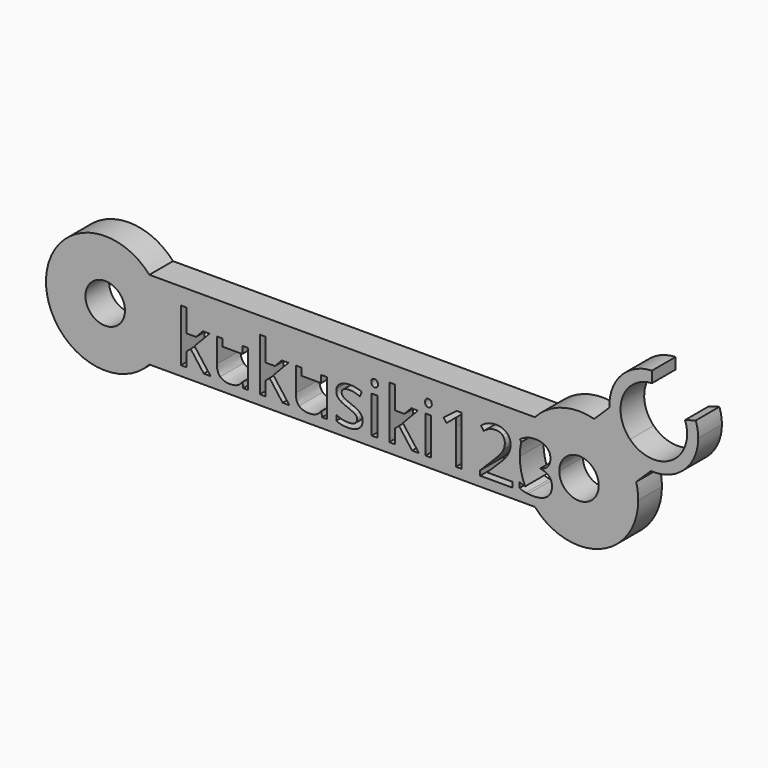
from build123d import *

# Parameters (mm, degrees)
F0_R     = 2
F1_DEPTH = 3


with BuildPart() as f1:
    # F0 (on Front) → F1 (new body)
    with BuildSketch(Plane.XZ):
        with BuildLine():
            ThreePointArc((-68.9614935578, 20.9310811907), (-79.4336295128, 16.9310811907), (-68.9614935578, 12.9310811907))
            Line((-68.9614935578, 12.9310811907), (-69.4336295128, 12.9310811907))
            Line((-69.4336295128, 12.9310811907), (-69.4336295128, 16.9310811907))
            Line((-69.4336295128, 16.9310811907), (-69.4336295128, 20.9310811907))
            Line((-69.4336295128, 20.9310811907), (-68.9614935578, 20.9310811907))
        make_face()
        with Locations((-73.4336295128, 16.9310811907)):
            Circle(F0_R, mode=Mode.SUBTRACT)
        with BuildLine():
            Line((-69.4336295128, 12.9310811907), (-68.9614935578, 12.9310811907))
            ThreePointArc((-68.9614935578, 12.9310811907), (-67.828595359, 14.7901486521), (-67.4336295128, 16.9310811907))
            Line((-67.4336295128, 16.9310811907), (-69.4336295128, 16.9310811907))
            Line((-69.4336295128, 16.9310811907), (-69.4336295128, 12.9310811907))
        make_face()
        with BuildLine():
            ThreePointArc((-67.4336295128, 16.9310811907), (-67.828595359, 19.0720137293), (-68.9614935578, 20.9310811907))
            Line((-68.9614935578, 20.9310811907), (-69.4336295128, 20.9310811907))
            Line((-69.4336295128, 20.9310811907), (-69.4336295128, 16.9310811907))
            Line((-69.4336295128, 16.9310811907), (-67.4336295128, 16.9310811907))
        make_face()
        with BuildLine():
            Line((-29.9057654678, 20.9310811907), (-68.9614935578, 20.9310811907))
            ThreePointArc((-68.9614935578, 20.9310811907), (-67.828595359, 19.0720137293), (-67.4336295128, 16.9310811907))
            Line((-67.4336295128, 16.9310811907), (-65.7621355794, 16.9310811907))
            Line((-65.7621355794, 16.9310811907), (-65.7621355794, 19.2408108427))
            Line((-65.7621355794, 19.2408108427), (-65.1995878697, 19.2408108427))
            Line((-65.1995878697, 19.2408108427), (-65.1995878697, 16.9310811907))
            Line((-65.1995878697, 16.9310811907), (-64.2298350591, 16.9310811907))
            Line((-64.2298350591, 16.9310811907), (-63.538262762, 17.6639227207))
            Line((-63.538262762, 17.6639227207), (-62.8627668767, 17.6639227207))
            Line((-62.8627668767, 17.6639227207), (-63.5599457963, 16.9310811907))
            Line((-63.5599457963, 16.9310811907), (-62.1192827691, 16.9310811907))
            Line((-62.1192827691, 16.9310811907), (-62.1192827691, 17.6639227207))
            Line((-62.1192827691, 17.6639227207), (-61.5435760487, 17.6639227207))
            Line((-61.5435760487, 17.6639227207), (-61.5435760487, 16.9310811907))
            Line((-61.5435760487, 16.9310811907), (-59.5466961669, 16.9310811907))
            Line((-59.5466961669, 16.9310811907), (-59.5466961669, 17.6639227207))
            Line((-59.5466961669, 17.6639227207), (-58.9775689518, 17.6639227207))
            Line((-58.9775689518, 17.6639227207), (-58.9775689518, 16.9310811907))
            Line((-58.9775689518, 16.9310811907), (-57.7713262994, 16.9310811907))
            Line((-57.7713262994, 16.9310811907), (-57.7713262994, 19.2408108427))
            Line((-57.7713262994, 19.2408108427), (-57.2087785897, 19.2408108427))
            Line((-57.2087785897, 19.2408108427), (-57.2087785897, 16.9310811907))
            Line((-57.2087785897, 16.9310811907), (-56.2390257792, 16.9310811907))
            Line((-56.2390257792, 16.9310811907), (-55.5474534821, 17.6639227207))
            Line((-55.5474534821, 17.6639227207), (-54.8719575967, 17.6639227207))
            Line((-54.8719575967, 17.6639227207), (-55.5691365163, 16.9310811907))
            Line((-55.5691365163, 16.9310811907), (-54.1284734892, 16.9310811907))
            Line((-54.1284734892, 16.9310811907), (-54.1284734892, 17.6639227207))
            Line((-54.1284734892, 17.6639227207), (-53.5527667687, 17.6639227207))
            Line((-53.5527667687, 17.6639227207), (-53.5527667687, 16.9310811907))
            Line((-53.5527667687, 16.9310811907), (-51.5558868869, 16.9310811907))
            Line((-51.5558868869, 16.9310811907), (-51.5558868869, 17.6639227207))
            Line((-51.5558868869, 17.6639227207), (-50.9867596718, 17.6639227207))
            Line((-50.9867596718, 17.6639227207), (-50.9867596718, 16.9310811907))
            Line((-50.9867596718, 16.9310811907), (-50.0032370628, 16.9310811907))
            add(Edge.make_bspline(
                [(-50.0032370628, 16.9310811907), (-49.9399323415, 17.2585795171), (-49.6467337434, 17.4670858515)],
                knots=[0.2159107229, 0.2159107229, 0.2159107229, 1, 1, 1], degree=2))
            add(Edge.make_bspline(
                [(-49.6467337434, 17.4670858515), (-49.2727985212, 17.7330075272), (-48.6225240731, 17.7330075272)],
                knots=[0, 0, 0, 1, 1, 1], degree=2))
            add(Edge.make_bspline(
                [(-48.6225240731, 17.7330075272), (-48.0161129942, 17.7330075272), (-47.4360199369, 17.4862760755)],
                knots=[0, 0, 0, 1, 1, 1], degree=2))
            Line((-47.4360199369, 17.4862760755), (-47.6388880193, 17.0235175307))
            add(Edge.make_bspline(
                [(-47.6388880193, 17.0235175307), (-48.2036288975, 17.2559933874), (-48.6630976896, 17.2559933874)],
                knots=[0, 0, 0, 1, 1, 1], degree=2))
            add(Edge.make_bspline(
                [(-48.6630976896, 17.2559933874), (-49.0677372703, 17.2559933874), (-49.2733468133, 17.1293379089)],
                knots=[0, 0, 0, 1, 1, 1], degree=2))
            add(Edge.make_bspline(
                [(-49.2733468133, 17.1293379089), (-49.4032036711, 17.0493460845), (-49.4510468087, 16.9310811907)],
                knots=[0, 0, 0, 0.6315701881, 0.6315701881, 0.6315701881], degree=2))
            Line((-49.4510468087, 16.9310811907), (-46.4326453669, 16.9310811907))
            Line((-46.4326453669, 16.9310811907), (-46.4326453669, 17.6639227207))
            Line((-46.4326453669, 17.6639227207), (-45.8635181518, 17.6639227207))
            Line((-45.8635181518, 17.6639227207), (-45.8635181518, 16.9310811907))
            Line((-45.8635181518, 16.9310811907), (-44.6572754995, 16.9310811907))
            Line((-44.6572754995, 16.9310811907), (-44.6572754995, 19.2408108427))
            Line((-44.6572754995, 19.2408108427), (-44.0947277897, 19.2408108427))
            Line((-44.0947277897, 19.2408108427), (-44.0947277897, 16.9310811907))
            Line((-44.0947277897, 16.9310811907), (-43.1249749792, 16.9310811907))
            Line((-43.1249749792, 16.9310811907), (-42.4334026821, 17.6639227207))
            Line((-42.4334026821, 17.6639227207), (-41.7579067968, 17.6639227207))
            Line((-41.7579067968, 17.6639227207), (-42.4550857164, 16.9310811907))
            Line((-42.4550857164, 16.9310811907), (-40.9738490727, 16.9310811907))
            Line((-40.9738490727, 16.9310811907), (-40.9738490727, 17.6639227207))
            Line((-40.9738490727, 17.6639227207), (-40.4047218577, 17.6639227207))
            Line((-40.4047218577, 17.6639227207), (-40.4047218577, 16.9310811907))
            Line((-40.4047218577, 16.9310811907), (-37.906702983, 16.9310811907))
            Line((-37.906702983, 16.9310811907), (-37.906702983, 17.4785999859))
            add(Edge.make_bspline(
                [(-37.906702983, 17.4785999859), (-37.906702983, 17.9249097673), (-37.8792883773, 18.3218732584)],
                knots=[0, 0, 0, 1, 1, 1], degree=2))
            add(Edge.make_bspline(
                [(-37.8792883773, 18.3218732584), (-37.9505663522, 18.2494986992), (-38.0399379669, 18.1710929268)],
                knots=[0, 0, 0, 1, 1, 1], degree=2))
            add(Edge.make_bspline(
                [(-38.0399379669, 18.1710929268), (-38.1293095816, 18.0926871544), (-38.8552483415, 17.502724839)],
                knots=[0, 0, 0, 1, 1, 1], degree=2))
            Line((-38.8552483415, 17.502724839), (-39.1568090046, 17.8931088247))
            Line((-39.1568090046, 17.8931088247), (-37.8310386712, 18.9184150792))
            Line((-37.8310386712, 18.9184150792), (-37.3518313629, 18.9184150792))
            Line((-37.3518313629, 18.9184150792), (-37.3518313629, 16.9310811907))
            Line((-37.3518313629, 16.9310811907), (-33.1212778292, 16.9310811907))
            add(Edge.make_bspline(
                [(-33.1212778292, 16.9310811907), (-33.0769106652, 17.017587587), (-33.0439002175, 17.1024715952)],
                knots=[0.655966, 0.655966, 0.655966, 1, 1, 1], degree=2))
            add(Edge.make_bspline(
                [(-33.0439002175, 17.1024715952), (-32.9479490974, 17.3492030469), (-32.9479490974, 17.6332183623)],
                knots=[0, 0, 0, 1, 1, 1], degree=2))
            add(Edge.make_bspline(
                [(-32.9479490974, 17.6332183623), (-32.9479490974, 18.0345681903), (-33.1913907964, 18.2692372154)],
                knots=[0, 0, 0, 1, 1, 1], degree=2))
            add(Edge.make_bspline(
                [(-33.1913907964, 18.2692372154), (-33.4348324953, 18.5039062405), (-33.8668866817, 18.5039062405)],
                knots=[0, 0, 0, 1, 1, 1], degree=2))
            add(Edge.make_bspline(
                [(-33.8668866817, 18.5039062405), (-34.1783166029, 18.5039062405), (-34.4579455814, 18.4008273229)],
                knots=[0, 0, 0, 1, 1, 1], degree=2))
            add(Edge.make_bspline(
                [(-34.4579455814, 18.4008273229), (-34.7375745599, 18.2977484053), (-35.0797088395, 18.0268921007)],
                knots=[0, 0, 0, 1, 1, 1], degree=2))
            Line((-35.0797088395, 18.0268921007), (-35.3812695026, 18.4139863336))
            add(Edge.make_bspline(
                [(-35.3812695026, 18.4139863336), (-34.6893248538, 18.9896930541), (-33.8734661871, 18.9896930541)],
                knots=[0, 0, 0, 1, 1, 1], degree=2))
            add(Edge.make_bspline(
                [(-33.8734661871, 18.9896930541), (-33.1672659433, 18.9896930541), (-32.7664644075, 18.6283685505)],
                knots=[0, 0, 0, 1, 1, 1], degree=2))
            add(Edge.make_bspline(
                [(-32.7664644075, 18.6283685505), (-32.3656628716, 18.2670440469), (-32.3656628716, 17.6573432153)],
                knots=[0, 0, 0, 1, 1, 1], degree=2))
            add(Edge.make_bspline(
                [(-32.3656628716, 17.6573432153), (-32.3656628716, 17.290977919), (-32.5234959307, 16.9310811907)],
                knots=[0, 0, 0, 0.7680386507, 0.7680386507, 0.7680386507], degree=2))
            Line((-32.5234959307, 16.9310811907), (-31.4336295128, 16.9310811907))
            ThreePointArc((-31.4336295128, 16.9310811907), (-31.3954385597, 17.6069753302), (-31.2813518835, 18.2742651226))
            Line((-31.2813518835, 18.2742651226), (-31.4269867712, 18.4688155451))
            add(Edge.make_bspline(
                [(-31.4269867712, 18.4688155451), (-31.313333711, 18.5586055073), (-31.1868512586, 18.6341488768)],
                knots=[0, 0, 0, 0.3688355878, 0.3688355878, 0.3688355878], degree=2))
            ThreePointArc((-31.1868512586, 18.6341488768), (-30.6737115294, 19.8536725852), (-29.9057654678, 20.9310811907))
        make_face()
        with BuildLine():
            add(Edge.make_bspline(
                [(-46.3849439529, 18.3953444017), (-46.480895073, 18.4896506455), (-46.480895073, 18.6815528856)],
                knots=[0, 0, 0, 1, 1, 1], degree=2))
            add(Edge.make_bspline(
                [(-46.480895073, 18.6815528856), (-46.480895073, 18.8767448785), (-46.3849439529, 18.9677613695)],
                knots=[0, 0, 0, 1, 1, 1], degree=2))
            add(Edge.make_bspline(
                [(-46.3849439529, 18.9677613695), (-46.2889928329, 19.0587778606), (-46.1442437146, 19.0587778606)],
                knots=[0, 0, 0, 1, 1, 1], degree=2))
            add(Edge.make_bspline(
                [(-46.1442437146, 19.0587778606), (-46.0071706859, 19.0587778606), (-45.9079298131, 18.9661164932)],
                knots=[0, 0, 0, 1, 1, 1], degree=2))
            add(Edge.make_bspline(
                [(-45.9079298131, 18.9661164932), (-45.8086889404, 18.8734551258), (-45.8086889404, 18.6815528856)],
                knots=[0, 0, 0, 1, 1, 1], degree=2))
            add(Edge.make_bspline(
                [(-45.8086889404, 18.6815528856), (-45.8086889404, 18.4896506455), (-45.9079298131, 18.3953444017)],
                knots=[0, 0, 0, 1, 1, 1], degree=2))
            add(Edge.make_bspline(
                [(-45.9079298131, 18.3953444017), (-46.0071706859, 18.301038158), (-46.1442437146, 18.301038158)],
                knots=[0, 0, 0, 1, 1, 1], degree=2))
            add(Edge.make_bspline(
                [(-46.1442437146, 18.301038158), (-46.2889928329, 18.301038158), (-46.3849439529, 18.3953444017)],
                knots=[0, 0, 0, 1, 1, 1], degree=2))
        make_face(mode=Mode.SUBTRACT)
        with BuildLine():
            add(Edge.make_bspline(
                [(-40.9261476588, 18.3953444017), (-41.0220987788, 18.4896506455), (-41.0220987788, 18.6815528856)],
                knots=[0, 0, 0, 1, 1, 1], degree=2))
            add(Edge.make_bspline(
                [(-41.0220987788, 18.6815528856), (-41.0220987788, 18.8767448785), (-40.9261476588, 18.9677613695)],
                knots=[0, 0, 0, 1, 1, 1], degree=2))
            add(Edge.make_bspline(
                [(-40.9261476588, 18.9677613695), (-40.8301965387, 19.0587778606), (-40.6854474204, 19.0587778606)],
                knots=[0, 0, 0, 1, 1, 1], degree=2))
            add(Edge.make_bspline(
                [(-40.6854474204, 19.0587778606), (-40.5483743917, 19.0587778606), (-40.449133519, 18.9661164932)],
                knots=[0, 0, 0, 1, 1, 1], degree=2))
            add(Edge.make_bspline(
                [(-40.449133519, 18.9661164932), (-40.3498926462, 18.8734551258), (-40.3498926462, 18.6815528856)],
                knots=[0, 0, 0, 1, 1, 1], degree=2))
            add(Edge.make_bspline(
                [(-40.3498926462, 18.6815528856), (-40.3498926462, 18.4896506455), (-40.449133519, 18.3953444017)],
                knots=[0, 0, 0, 1, 1, 1], degree=2))
            add(Edge.make_bspline(
                [(-40.449133519, 18.3953444017), (-40.5483743917, 18.301038158), (-40.6854474204, 18.301038158)],
                knots=[0, 0, 0, 1, 1, 1], degree=2))
            add(Edge.make_bspline(
                [(-40.6854474204, 18.301038158), (-40.8301965387, 18.301038158), (-40.9261476588, 18.3953444017)],
                knots=[0, 0, 0, 1, 1, 1], degree=2))
        make_face(mode=Mode.SUBTRACT)
        with BuildLine():
            Line((-68.9614935578, 12.9310811907), (-29.9057654678, 12.9310811907))
            ThreePointArc((-29.9057654678, 12.9310811907), (-30.2715984018, 13.3822705408), (-30.5920880684, 13.8667206816))
            add(Edge.make_bspline(
                [(-30.5920880684, 13.8667206816), (-30.705726748, 13.8798984775), (-30.8123513106, 13.899349061)],
                knots=[0.6775013135, 0.6775013135, 0.6775013135, 1, 1, 1], degree=2))
            add(Edge.make_bspline(
                [(-30.8123513106, 13.899349061), (-31.1429714558, 13.9596611936), (-31.4544013769, 14.1098932331)],
                knots=[0, 0, 0, 1, 1, 1], degree=2))
            Line((-31.4544013769, 14.1098932331), (-31.4544013769, 14.6516058424))
            add(Edge.make_bspline(
                [(-31.4544013769, 14.6516058424), (-31.1874369996, 14.5194719587), (-30.8917372822, 14.4392827283)],
                knots=[0, 0, 0, 0.8196998763, 0.8196998763, 0.8196998763], degree=2))
            ThreePointArc((-30.8917372822, 14.4392827283), (-31.2965915038, 15.6560609196), (-31.4336295128, 16.9310811907))
            Line((-31.4336295128, 16.9310811907), (-32.5234959307, 16.9310811907))
            add(Edge.make_bspline(
                [(-32.5234959307, 16.9310811907), (-32.5711643252, 16.8223859699), (-32.6332294236, 16.714280778)],
                knots=[0.7680386507, 0.7680386507, 0.7680386507, 1, 1, 1], degree=2))
            add(Edge.make_bspline(
                [(-32.6332294236, 16.714280778), (-32.9007959756, 16.2482324805), (-33.6333142408, 15.5354527314)],
                knots=[0, 0, 0, 1, 1, 1], degree=2))
            Line((-33.6333142408, 15.5354527314), (-34.7298984703, 14.462993355))
            Line((-34.7298984703, 14.462993355), (-34.7298984703, 14.4355787492))
            Line((-34.7298984703, 14.4355787492), (-32.1529255311, 14.4355787492))
            Line((-32.1529255311, 14.4355787492), (-32.1529255311, 13.9081217349))
            Line((-32.1529255311, 13.9081217349), (-35.4459679721, 13.9081217349))
            Line((-35.4459679721, 13.9081217349), (-35.4459679721, 14.3982948854))
            Line((-35.4459679721, 14.3982948854), (-34.1267771441, 15.7240652188))
            add(Edge.make_bspline(
                [(-34.1267771441, 15.7240652188), (-33.5236558179, 16.3348626346), (-33.3317535777, 16.5953013891)],
                knots=[0, 0, 0, 1, 1, 1], degree=2))
            add(Edge.make_bspline(
                [(-33.3317535777, 16.5953013891), (-33.2058722329, 16.7661403571), (-33.1212778292, 16.9310811907)],
                knots=[0, 0, 0, 0.655966, 0.655966, 0.655966], degree=2))
            Line((-33.1212778292, 16.9310811907), (-37.3518313629, 16.9310811907))
            Line((-37.3518313629, 16.9310811907), (-37.3518313629, 13.9081217349))
            Line((-37.3518313629, 13.9081217349), (-37.906702983, 13.9081217349))
            Line((-37.906702983, 13.9081217349), (-37.906702983, 16.9310811907))
            Line((-37.906702983, 16.9310811907), (-40.4047218577, 16.9310811907))
            Line((-40.4047218577, 16.9310811907), (-40.4047218577, 13.9081217349))
            Line((-40.4047218577, 13.9081217349), (-40.9738490727, 13.9081217349))
            Line((-40.9738490727, 13.9081217349), (-40.9738490727, 16.9310811907))
            Line((-40.9738490727, 16.9310811907), (-42.4550857164, 16.9310811907))
            Line((-42.4550857164, 16.9310811907), (-43.2799657073, 16.0640063299))
            Line((-43.2799657073, 16.0640063299), (-41.6515381265, 13.9081217349))
            Line((-41.6515381265, 13.9081217349), (-42.3401930226, 13.9081217349))
            Line((-42.3401930226, 13.9081217349), (-43.6670599403, 15.6834916023))
            Line((-43.6670599403, 15.6834916023), (-44.0947277897, 15.3128461328))
            Line((-44.0947277897, 15.3128461328), (-44.0947277897, 13.9081217349))
            Line((-44.0947277897, 13.9081217349), (-44.6572754995, 13.9081217349))
            Line((-44.6572754995, 13.9081217349), (-44.6572754995, 16.9310811907))
            Line((-44.6572754995, 16.9310811907), (-45.8635181518, 16.9310811907))
            Line((-45.8635181518, 16.9310811907), (-45.8635181518, 13.9081217349))
            Line((-45.8635181518, 13.9081217349), (-46.4326453669, 13.9081217349))
            Line((-46.4326453669, 13.9081217349), (-46.4326453669, 16.9310811907))
            Line((-46.4326453669, 16.9310811907), (-49.4510468087, 16.9310811907))
            add(Edge.make_bspline(
                [(-49.4510468087, 16.9310811907), (-49.4789563563, 16.862090739), (-49.4789563563, 16.7800758318)],
                knots=[0.6315701881, 0.6315701881, 0.6315701881, 1, 1, 1], degree=2))
            add(Edge.make_bspline(
                [(-49.4789563563, 16.7800758318), (-49.4789563563, 16.6287472081), (-49.4016471681, 16.52292683)],
                knots=[0, 0, 0, 1, 1, 1], degree=2))
            add(Edge.make_bspline(
                [(-49.4016471681, 16.52292683), (-49.32433798, 16.4171064518), (-49.1532708402, 16.3211553318)],
                knots=[0, 0, 0, 1, 1, 1], degree=2))
            add(Edge.make_bspline(
                [(-49.1532708402, 16.3211553318), (-48.9822037004, 16.2252042117), (-48.4953203025, 16.0431712296)],
                knots=[0, 0, 0, 1, 1, 1], degree=2))
            add(Edge.make_bspline(
                [(-48.4953203025, 16.0431712296), (-47.8275005068, 15.7997295307), (-47.5928314817, 15.552998079)],
                knots=[0, 0, 0, 1, 1, 1], degree=2))
            add(Edge.make_bspline(
                [(-47.5928314817, 15.552998079), (-47.3581624566, 15.3062666274), (-47.3581624566, 14.9323314052)],
                knots=[0, 0, 0, 1, 1, 1], degree=2))
            add(Edge.make_bspline(
                [(-47.3581624566, 14.9323314052), (-47.3581624566, 14.4081641435), (-47.7485464423, 14.1236005359)],
                knots=[0, 0, 0, 1, 1, 1], degree=2))
            add(Edge.make_bspline(
                [(-47.7485464423, 14.1236005359), (-48.1389304279, 13.8390369284), (-48.8451306717, 13.8390369284)],
                knots=[0, 0, 0, 1, 1, 1], degree=2))
            add(Edge.make_bspline(
                [(-48.8451306717, 13.8390369284), (-49.591904532, 13.8390369284), (-50.0097031234, 14.075899122)],
                knots=[0, 0, 0, 1, 1, 1], degree=2))
            Line((-50.0097031234, 14.075899122), (-50.0097031234, 14.6033561363))
            add(Edge.make_bspline(
                [(-50.0097031234, 14.6033561363), (-49.7388468187, 14.4662831076), (-49.4290617739, 14.3878773352)],
                knots=[0, 0, 0, 1, 1, 1], degree=2))
            add(Edge.make_bspline(
                [(-49.4290617739, 14.3878773352), (-49.1192767291, 14.3094715628), (-48.8308750767, 14.3094715628)],
                knots=[0, 0, 0, 1, 1, 1], degree=2))
            add(Edge.make_bspline(
                [(-48.8308750767, 14.3094715628), (-48.3856618796, 14.3094715628), (-48.1460582254, 14.4514792205)],
                knots=[0, 0, 0, 1, 1, 1], degree=2))
            add(Edge.make_bspline(
                [(-48.1460582254, 14.4514792205), (-47.9064545713, 14.5934868783), (-47.9064545713, 14.8851782833)],
                knots=[0, 0, 0, 1, 1, 1], degree=2))
            add(Edge.make_bspline(
                [(-47.9064545713, 14.8851782833), (-47.9064545713, 15.1044951292), (-48.096163643, 15.2602100898)],
                knots=[0, 0, 0, 1, 1, 1], degree=2))
            add(Edge.make_bspline(
                [(-48.096163643, 15.2602100898), (-48.2858727147, 15.4159250503), (-48.8385511663, 15.6286623909)],
                knots=[0, 0, 0, 1, 1, 1], degree=2))
            add(Edge.make_bspline(
                [(-48.8385511663, 15.6286623909), (-49.362718428, 15.8238543837), (-49.5836801502, 15.9697000862)],
                knots=[0, 0, 0, 1, 1, 1], degree=2))
            add(Edge.make_bspline(
                [(-49.5836801502, 15.9697000862), (-49.8046418725, 16.1155457887), (-49.9126554191, 16.3003202314)],
                knots=[0, 0, 0, 1, 1, 1], degree=2))
            add(Edge.make_bspline(
                [(-49.9126554191, 16.3003202314), (-50.0206689657, 16.4850946741), (-50.0206689657, 16.7416953837)],
                knots=[0, 0, 0, 1, 1, 1], degree=2))
            add(Edge.make_bspline(
                [(-50.0206689657, 16.7416953837), (-50.0206689657, 16.8408996228), (-50.0032370628, 16.9310811907)],
                knots=[0, 0, 0, 0.2159107229, 0.2159107229, 0.2159107229], degree=2))
            Line((-50.0032370628, 16.9310811907), (-50.9867596718, 16.9310811907))
            Line((-50.9867596718, 16.9310811907), (-50.9867596718, 13.9081217349))
            Line((-50.9867596718, 13.9081217349), (-51.456097722, 13.9081217349))
            Line((-51.456097722, 13.9081217349), (-51.5383415392, 14.4114538962))
            Line((-51.5383415392, 14.4114538962), (-51.5690458976, 14.4114538962))
            add(Edge.make_bspline(
                [(-51.5690458976, 14.4114538962), (-51.7434027901, 14.1340180861), (-52.0537361271, 13.9865275073)],
                knots=[0, 0, 0, 1, 1, 1], degree=2))
            add(Edge.make_bspline(
                [(-52.0537361271, 13.9865275073), (-52.364069464, 13.8390369284), (-52.7621295393, 13.8390369284)],
                knots=[0, 0, 0, 1, 1, 1], degree=2))
            add(Edge.make_bspline(
                [(-52.7621295393, 13.8390369284), (-53.4474946827, 13.8390369284), (-53.7879840859, 14.1647224445)],
                knots=[0, 0, 0, 1, 1, 1], degree=2))
            add(Edge.make_bspline(
                [(-53.7879840859, 14.1647224445), (-54.1284734892, 14.4904079607), (-54.1284734892, 15.2064774625)],
                knots=[0, 0, 0, 1, 1, 1], degree=2))
            Line((-54.1284734892, 15.2064774625), (-54.1284734892, 16.9310811907))
            Line((-54.1284734892, 16.9310811907), (-55.5691365163, 16.9310811907))
            Line((-55.5691365163, 16.9310811907), (-56.3940165072, 16.0640063299))
            Line((-56.3940165072, 16.0640063299), (-54.7655889265, 13.9081217349))
            Line((-54.7655889265, 13.9081217349), (-55.4542438226, 13.9081217349))
            Line((-55.4542438226, 13.9081217349), (-56.7811107402, 15.6834916023))
            Line((-56.7811107402, 15.6834916023), (-57.2087785897, 15.3128461328))
            Line((-57.2087785897, 15.3128461328), (-57.2087785897, 13.9081217349))
            Line((-57.2087785897, 13.9081217349), (-57.7713262994, 13.9081217349))
            Line((-57.7713262994, 13.9081217349), (-57.7713262994, 16.9310811907))
            Line((-57.7713262994, 16.9310811907), (-58.9775689518, 16.9310811907))
            Line((-58.9775689518, 16.9310811907), (-58.9775689518, 13.9081217349))
            Line((-58.9775689518, 13.9081217349), (-59.446907002, 13.9081217349))
            Line((-59.446907002, 13.9081217349), (-59.5291508192, 14.4114538962))
            Line((-59.5291508192, 14.4114538962), (-59.5598551776, 14.4114538962))
            add(Edge.make_bspline(
                [(-59.5598551776, 14.4114538962), (-59.7342120701, 14.1340180861), (-60.044545407, 13.9865275073)],
                knots=[0, 0, 0, 1, 1, 1], degree=2))
            add(Edge.make_bspline(
                [(-60.044545407, 13.9865275073), (-60.354878744, 13.8390369284), (-60.7529388193, 13.8390369284)],
                knots=[0, 0, 0, 1, 1, 1], degree=2))
            add(Edge.make_bspline(
                [(-60.7529388193, 13.8390369284), (-61.4383039627, 13.8390369284), (-61.7787933659, 14.1647224445)],
                knots=[0, 0, 0, 1, 1, 1], degree=2))
            add(Edge.make_bspline(
                [(-61.7787933659, 14.1647224445), (-62.1192827691, 14.4904079607), (-62.1192827691, 15.2064774625)],
                knots=[0, 0, 0, 1, 1, 1], degree=2))
            Line((-62.1192827691, 15.2064774625), (-62.1192827691, 16.9310811907))
            Line((-62.1192827691, 16.9310811907), (-63.5599457963, 16.9310811907))
            Line((-63.5599457963, 16.9310811907), (-64.3848257872, 16.0640063299))
            Line((-64.3848257872, 16.0640063299), (-62.7563982065, 13.9081217349))
            Line((-62.7563982065, 13.9081217349), (-63.4450531025, 13.9081217349))
            Line((-63.4450531025, 13.9081217349), (-64.7719200202, 15.6834916023))
            Line((-64.7719200202, 15.6834916023), (-65.1995878697, 15.3128461328))
            Line((-65.1995878697, 15.3128461328), (-65.1995878697, 13.9081217349))
            Line((-65.1995878697, 13.9081217349), (-65.7621355794, 13.9081217349))
            Line((-65.7621355794, 13.9081217349), (-65.7621355794, 16.9310811907))
            Line((-65.7621355794, 16.9310811907), (-67.4336295128, 16.9310811907))
            ThreePointArc((-67.4336295128, 16.9310811907), (-67.828595359, 14.7901486521), (-68.9614935578, 12.9310811907))
        make_face()
        with BuildLine():
            Line((-28.6195751225, 16.9310811907), (-27.4336295128, 16.9310811907))
            Line((-27.4336295128, 16.9310811907), (-27.4336295128, 20.9310811907))
            Line((-27.4336295128, 20.9310811907), (-29.9057654678, 20.9310811907))
            ThreePointArc((-29.9057654678, 20.9310811907), (-30.6737115294, 19.8536725852), (-31.1868512586, 18.6341488768))
            add(Edge.make_bspline(
                [(-31.1868512586, 18.6341488768), (-30.9704100437, 18.7634213441), (-30.7164001905, 18.8509751491)],
                knots=[0.3688355878, 0.3688355878, 0.3688355878, 1, 1, 1], degree=2))
            add(Edge.make_bspline(
                [(-30.7164001905, 18.8509751491), (-30.3139537783, 18.9896930541), (-29.8676439969, 18.9896930541)],
                knots=[0, 0, 0, 1, 1, 1], degree=2))
            add(Edge.make_bspline(
                [(-29.8676439969, 18.9896930541), (-29.1384154843, 18.9896930541), (-28.7337759037, 18.6557831562)],
                knots=[0, 0, 0, 1, 1, 1], degree=2))
            add(Edge.make_bspline(
                [(-28.7337759037, 18.6557831562), (-28.329136323, 18.3218732584), (-28.329136323, 17.7395870325)],
                knots=[0, 0, 0, 1, 1, 1], degree=2))
            add(Edge.make_bspline(
                [(-28.329136323, 17.7395870325), (-28.329136323, 17.25928314), (-28.5983477513, 16.9544327243)],
                knots=[0, 0, 0, 1, 1, 1], degree=2))
            add(Edge.make_bspline(
                [(-28.5983477513, 16.9544327243), (-28.6087926545, 16.9426050946), (-28.6195751225, 16.9310811907)],
                knots=[0, 0, 0, 0.0387981418, 0.0387981418, 0.0387981418], degree=2))
        make_face()
        with BuildLine():
            ThreePointArc((-30.5920880684, 13.8667206816), (-30.2715984018, 13.3822705408), (-29.9057654678, 12.9310811907))
            Line((-29.9057654678, 12.9310811907), (-27.4336295128, 12.9310811907))
            Line((-27.4336295128, 12.9310811907), (-27.4336295128, 16.9310811907))
            Line((-27.4336295128, 16.9310811907), (-28.6195751225, 16.9310811907))
            add(Edge.make_bspline(
                [(-28.6195751225, 16.9310811907), (-28.8867046234, 16.645583038), (-29.3610220829, 16.5465033909)],
                knots=[0.0387981418, 0.0387981418, 0.0387981418, 1, 1, 1], degree=2))
            Line((-29.3610220829, 16.5465033909), (-29.3610220829, 16.5190887852))
            add(Edge.make_bspline(
                [(-29.3610220829, 16.5190887852), (-28.7579007567, 16.4445210576), (-28.4667576438, 16.135832597)],
                knots=[0, 0, 0, 1, 1, 1], degree=2))
            add(Edge.make_bspline(
                [(-28.4667576438, 16.135832597), (-28.1756145309, 15.8271441364), (-28.1756145309, 15.3271017278)],
                knots=[0, 0, 0, 1, 1, 1], degree=2))
            add(Edge.make_bspline(
                [(-28.1756145309, 15.3271017278), (-28.1756145309, 14.6110322259), (-28.6723671868, 14.2250345772)],
                knots=[0, 0, 0, 1, 1, 1], degree=2))
            add(Edge.make_bspline(
                [(-28.6723671868, 14.2250345772), (-29.1691198428, 13.8390369284), (-30.0836710901, 13.8390369284)],
                knots=[0, 0, 0, 1, 1, 1], degree=2))
            add(Edge.make_bspline(
                [(-30.0836710901, 13.8390369284), (-30.353357314, 13.8390369284), (-30.5920880684, 13.8667206816)],
                knots=[0, 0, 0, 0.6775013135, 0.6775013135, 0.6775013135], degree=2))
        make_face()
        with BuildLine():
            ThreePointArc((-29.9057654678, 12.9310811907), (-23.2926969741, 11.3260470369), (-19.4336295128, 16.9310811907))
            ThreePointArc((-19.4336295128, 16.9310811907), (-19.486178222, 17.7234341066), (-19.6429038939, 18.5019079814))
            ThreePointArc((-19.6429038939, 18.5019079814), (-20.2441096146, 19.942539845), (-21.1965980435, 21.1793236894))
            Line((-21.1965980435, 21.1793236894), (-24.0212856897, 18.3471620236))
            ThreePointArc((-24.0212856897, 18.3471620236), (-23.5863764649, 17.6976685483), (-23.4336295128, 16.9310811907))
            ThreePointArc((-23.4336295128, 16.9310811907), (-25.4336295128, 14.9310811907), (-27.4336295128, 16.9310811907))
            Line((-27.4336295128, 16.9310811907), (-27.4336295128, 12.9310811907))
            Line((-27.4336295128, 12.9310811907), (-29.9057654678, 12.9310811907))
        make_face()
        with BuildLine():
            Line((-24.0212856897, 18.3471620236), (-21.1965980435, 21.1793236894))
            ThreePointArc((-21.1965980435, 21.1793236894), (-22.4453811406, 22.1340007236), (-23.8992632842, 22.731574297))
            ThreePointArc((-23.8992632842, 22.731574297), (-27.1564372786, 22.6784226111), (-29.9057654678, 20.9310811907))
            Line((-29.9057654678, 20.9310811907), (-27.4336295128, 20.9310811907))
            Line((-27.4336295128, 20.9310811907), (-27.4336295128, 16.9310811907))
            ThreePointArc((-27.4336295128, 16.9310811907), (-26.2002168704, 18.7783342386), (-24.0212856897, 18.3471620236))
        make_face()
        with BuildLine():
            Line((-20.2677873904, 22.0888899437), (-18.185251334, 19.9622920565))
            ThreePointArc((-18.185251334, 19.9622920565), (-14.7929244028, 21.1540845075), (-13.3564520412, 24.4502638729))
            ThreePointArc((-13.3564520412, 24.4502638729), (-13.4203179442, 25.205720207), (-13.6101028291, 25.9397330297))
            Line((-13.6101028291, 25.9397330297), (-14.6935145606, 25.6277406217))
            ThreePointArc((-14.6935145606, 25.6277406217), (-14.5348907369, 25.0484741215), (-14.4814520412, 24.4502638729))
            ThreePointArc((-14.4814520412, 24.4502638729), (-16.5812328059, 21.3254533344), (-20.2677873904, 22.0888899437))
        make_face()
        with BuildLine():
            Line((-22.3503234468, 24.2154878308), (-20.2677873904, 22.0888899437))
            ThreePointArc((-20.2677873904, 22.0888899437), (-21.0025884975, 25.6719227446), (-18.0423165107, 27.8201421198))
            Line((-18.0423165107, 27.8201421198), (-18.0423165107, 28.9464238343))
            ThreePointArc((-18.0423165107, 28.9464238343), (-21.1836762345, 27.4800459059), (-22.3503234468, 24.2154878308))
        make_face()
        with BuildLine():
            ThreePointArc((-22.3503234468, 24.2154878308), (-21.9770779605, 22.6418275226), (-21.0715658402, 21.3017653006))
            Line((-21.0715658402, 21.3017653006), (-20.2677873904, 22.0888899437))
            Line((-20.2677873904, 22.0888899437), (-22.3503234468, 24.2154878308))
        make_face()
        with BuildLine():
            Line((-20.2677873904, 22.0888899437), (-21.0715658402, 21.3017653006))
            ThreePointArc((-21.0715658402, 21.3017653006), (-19.7507532695, 20.368398753), (-18.185251334, 19.9622920565))
            Line((-18.185251334, 19.9622920565), (-20.2677873904, 22.0888899437))
        make_face()
        with BuildLine():
            ThreePointArc((-23.8992632842, 22.731574297), (-22.4453811406, 22.1340007236), (-21.1965980435, 21.1793236894))
            Line((-21.1965980435, 21.1793236894), (-21.0715658402, 21.3017653006))
            ThreePointArc((-21.0715658402, 21.3017653006), (-21.9770779605, 22.6418275226), (-22.3503234468, 24.2154878308))
            Line((-22.3503234468, 24.2154878308), (-22.3667864387, 24.2322991429))
            Line((-22.3667864387, 24.2322991429), (-23.8992632842, 22.731574297))
        make_face()
        with BuildLine():
            ThreePointArc((-21.1965980435, 21.1793236894), (-20.2441096146, 19.942539845), (-19.6429038939, 18.5019079814))
            Line((-19.6429038939, 18.5019079814), (-18.1687883422, 19.9454807444))
            Line((-18.1687883422, 19.9454807444), (-18.185251334, 19.9622920565))
            ThreePointArc((-18.185251334, 19.9622920565), (-19.7507532695, 20.368398753), (-21.0715658402, 21.3017653006))
            Line((-21.0715658402, 21.3017653006), (-21.1965980435, 21.1793236894))
        make_face()
    extrude(amount=F1_DEPTH)


solid = f1.part
